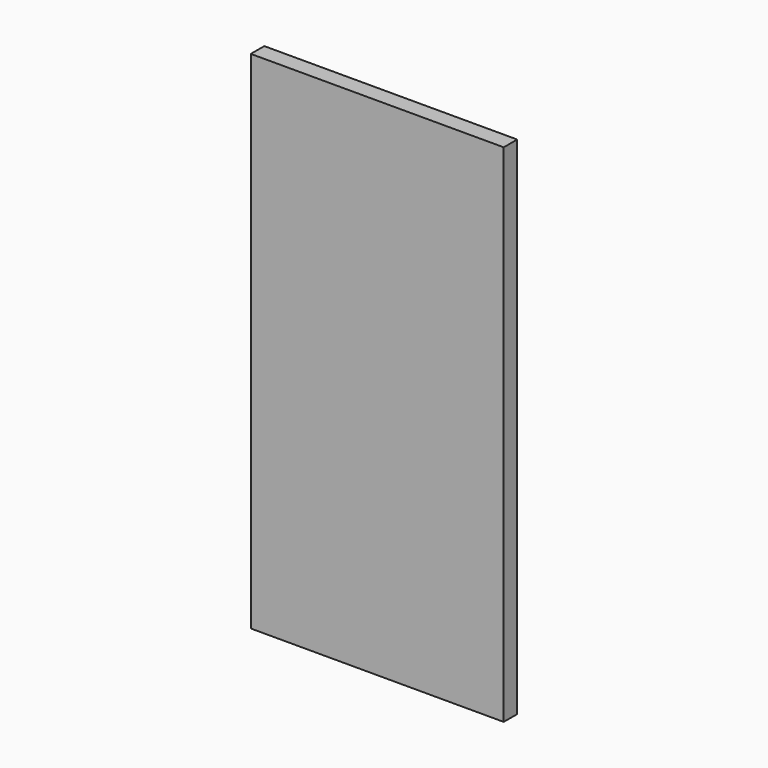
from build123d import *

# Parameters (mm, degrees)
SKETCH_W  = 1500
SKETCH_H  = 100
PAD_DEPTH = 3000


with BuildPart() as body:
    # Sketch → Pad (new body)
    with BuildSketch(Plane.XY):
        Rectangle(SKETCH_W, SKETCH_H)
    extrude(amount=PAD_DEPTH)


with BuildPart() as wall1500_clone:
    # Clone base: copy of Body
    add(body.part)


solid = Compound([body.part, wall1500_clone.part])
